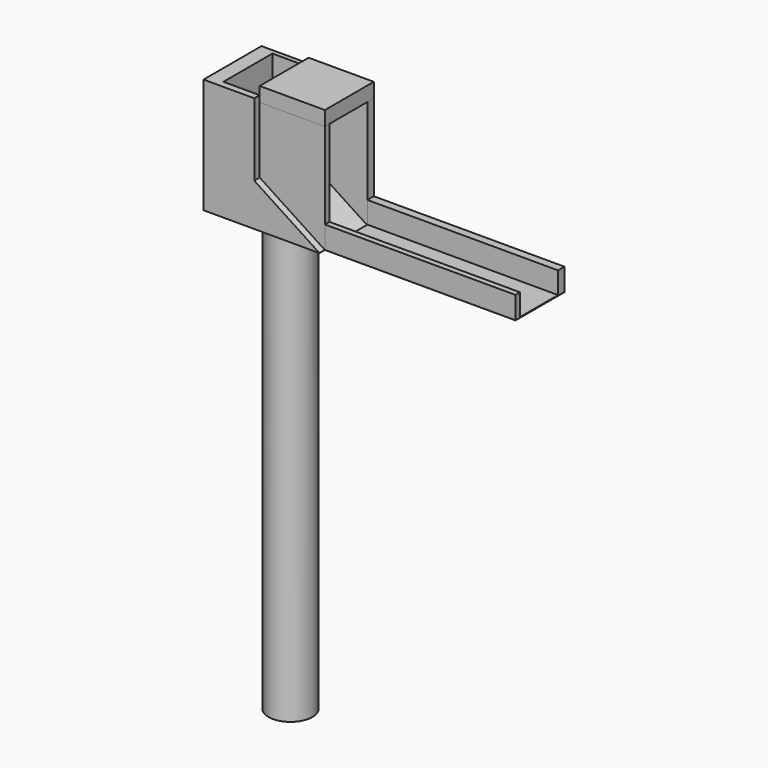
from build123d import *

# Parameters (mm, degrees)
F1_DEPTH  = 12.7
F2_W      = 17.78
F2_H      = 14.932741411
F3_DEPTH  = 12.7
F5_DEPTH  = 25.4
F7_DEPTH  = 0.254
F6_W      = 22.8599980474
F6_H      = 2.8099045157
F8_DEPTH  = 38.1
F9_W      = 22.8599980474
F9_H      = 21.4400039986
F10_DEPTH = 5.08
F11_W     = 66.8126046658
F11_H     = 1.9855666906
F12_DEPTH = 7.62
F11_H_2   = 2.8099045157
F14_DEPTH = 152.4


with BuildPart() as f1:
    # F0 (on Front) → F1 (new body, symmetric)
    with BuildSketch(Plane.XZ):
        Polygon((-65.4459670186, 0), (-42.5859689713, 0), (-65.4459670186, 14.932741411), align=None)
    extrude(amount=F1_DEPTH, both=True)

    # F2 (on Front) → F3 (join, symmetric)
    with BuildSketch(Plane.XZ):
        with Locations((-74.3359670186, 7.4663707055)):
            Rectangle(F2_W, F2_H)
    extrude(amount=F3_DEPTH, both=True)

    # F4 (on face) → F5 (join)
    with BuildSketch(Plane.XY.offset(14.932741411)):
        Polygon((-83.2259670186, -12.7), (-65.4459670186, -12.7), (-65.4459670186, -10.3371050209), (-78.1459670186, -10.3371050209), (-78.1459670186, 11.1028989777), (-65.4459670186, 11.1028989777), (-65.4459670186, 12.7), (-83.2259670186, 12.7), align=None)
    extrude(amount=F5_DEPTH)

    # F13 (on face) → F14 (join)
    with BuildSketch(Plane(origin=(0, 0, 0), x_dir=(1, 0, 0), z_dir=(0, 0, -1))):
        with BuildLine():
            ThreePointArc((-55.2162287311, 0), (-62.9059679949, 7.6897392638), (-70.5957072587, 0))
            Line((-70.5957072587, 0), (-55.2162287311, 0))
        make_face()
        with BuildLine():
            Line((-55.2162287311, 0), (-70.5957072587, 0))
            ThreePointArc((-70.5957072587, 0), (-62.9059679949, -7.6897392638), (-55.2162287311, 0))
        make_face()
    extrude(amount=F14_DEPTH)


with BuildPart() as f7:
    # F6 (on Top) → F7 (new body)
    with BuildSketch(Plane.XY):
        Polygon((-42.5859689713, -8.3515383303), (-42.5859689713, -10.3371050209), (24.2266356945, -10.3371050209), (24.2266356945, 11.1028989777), (-42.5859689713, 11.1028989777), (-42.5859689713, 8.292994462), align=None)
    extrude(amount=F7_DEPTH)


with BuildPart() as f8:
    # F6 (on Top) → F8 (new body)
    with BuildSketch(Plane.XY):
        with Locations((-54.0159679949, 9.6979467198)):
            Rectangle(F6_W, F6_H)
    extrude(amount=F8_DEPTH)


with BuildPart() as f8b:
    # F6 (on Top) → F8, piece 2 (new body)
    with BuildSketch(Plane.XY):
        Polygon((-65.4459670186, -10.3371050209), (-42.5859689713, -10.3371050209), (-42.5859689713, -8.3515383303), (-62.3576827347, -8.3515383303), (-65.4459670186, -8.3515383303), align=None)
    extrude(amount=F8_DEPTH)


with BuildPart() as f10:
    # F9 (on face) → F10 (new body)
    with BuildSketch(Plane.XY.offset(38.1)):
        with Locations((-54.0159679949, 0.3828969784)):
            Rectangle(F9_W, F9_H)
    extrude(amount=F10_DEPTH)


with BuildPart() as f12:
    # F11 (on face) → F12 (new body)
    with BuildSketch(Plane.XY.offset(0.254)):
        with Locations((-9.1796666384, -9.3443216756)):
            Rectangle(F11_W, F11_H)
    extrude(amount=F12_DEPTH)


with BuildPart() as f12b:
    # F11 (on face) → F12, piece 2 (new body)
    with BuildSketch(Plane.XY.offset(0.254)):
        with Locations((-9.1796666384, 9.6979467198)):
            Rectangle(F11_W, F11_H_2)
    extrude(amount=F12_DEPTH)


solid = Compound([f1.part, f7.part, f8.part, f8b.part, f10.part, f12.part, f12b.part])
